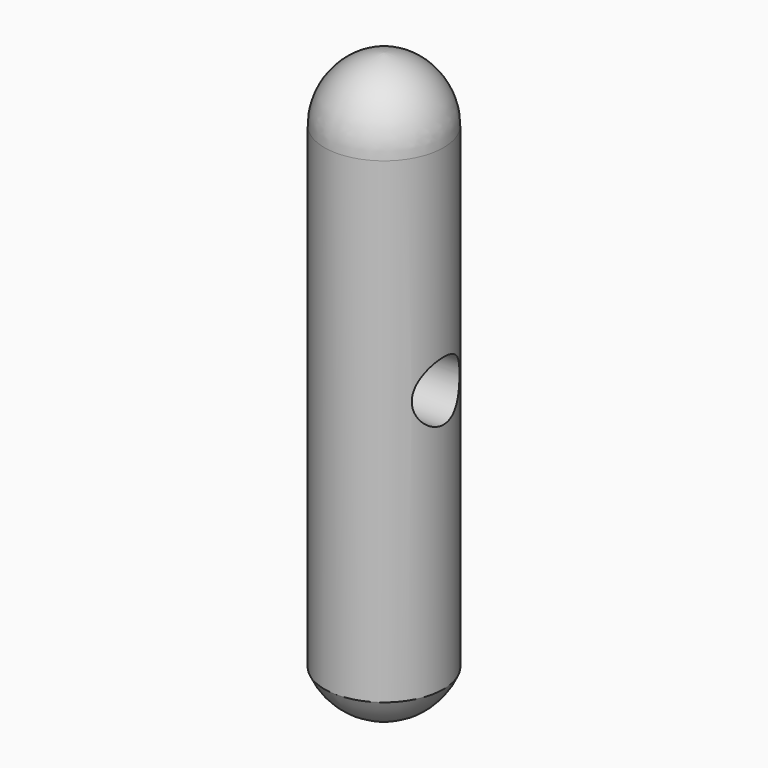
from build123d import *

# Parameters (mm, degrees)
F2_R          = 1.5875
F3_DEPTH      = 3.1760001
F3_DEPTH_BACK = 25.4


with BuildPart() as f1:
    # F0 (on Right) → F1 (revolve)
    with BuildSketch(Plane.YZ):
        with BuildLine():
            ThreePointArc((0, 14.8244286961), (-2.2588675851, 13.7379880235), (-3.175, 11.4048490435))
            Line((-3.175, 11.4048490435), (-3.175, -13.9951509565))
            ThreePointArc((-3.175, -13.9951509565), (-1.9127164414, -15.5459720334), (0, -16.129))
            Line((0, -16.129), (0, 0))
            Line((0, 0), (0, 14.8244286961))
        make_face()
    revolve(axis=Axis((0, 0, -0.634892378), (0, 0, 1)))

    # F2 (on Right) → F3 (cut, two sides)
    with BuildSketch(Plane.YZ) as f3_sk:
        Circle(F2_R)
    extrude(amount=-F3_DEPTH, mode=Mode.SUBTRACT)
    extrude(f3_sk.sketch, amount=F3_DEPTH_BACK, mode=Mode.SUBTRACT)


solid = f1.part
